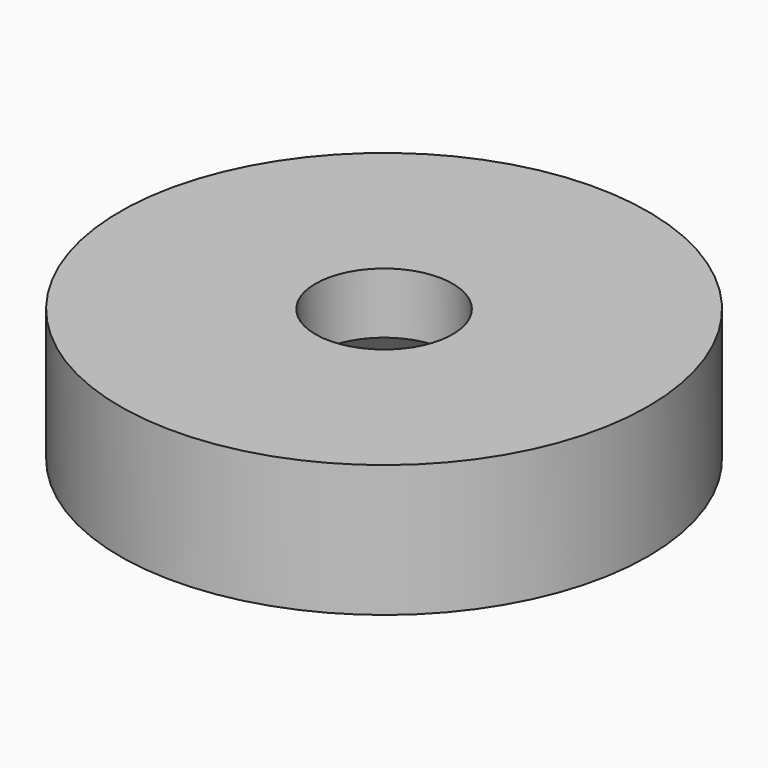
from build123d import *

# Parameters (mm, degrees)
F0_R           = 6.35
F1_DEPTH       = 3.175
F2_D           = 3.3
F2_CSINK_D     = 6.72
F2_CSINK_ANGLE = 90


with BuildPart() as f1:
    # F0 (on Top) → F1 (new body)
    with BuildSketch(Plane.XY):
        Circle(F0_R)
    extrude(amount=F1_DEPTH)

    # F2 (through all)
    with Locations(Plane(origin=(0, 0, 0), x_dir=(1, 0, 0), z_dir=(0, 0, -1))):
        with Locations((0, 0)):
            CounterSinkHole(F2_D / 2, F2_CSINK_D / 2, counter_sink_angle=F2_CSINK_ANGLE)


solid = f1.part
